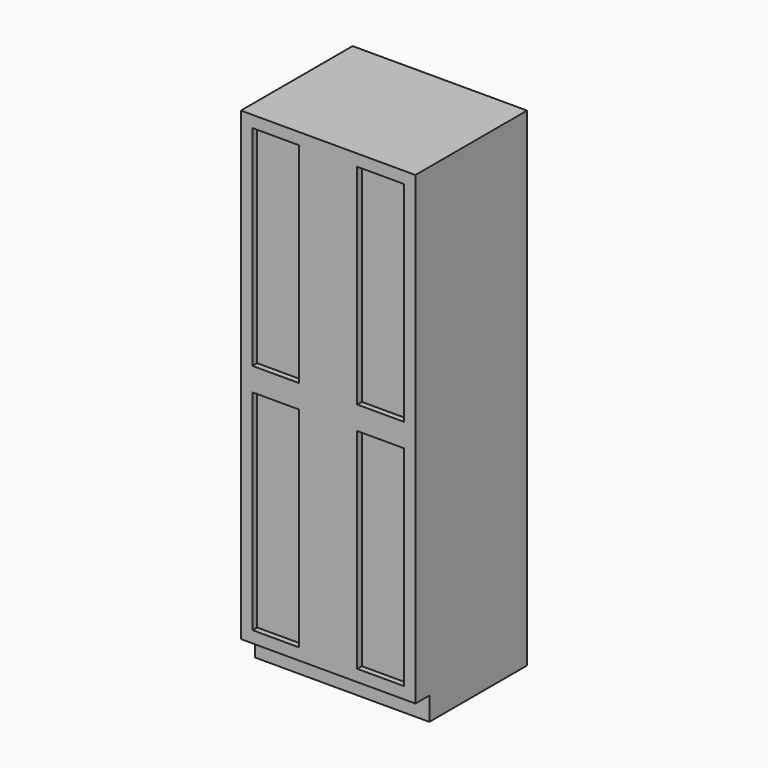
from build123d import *

# Parameters (mm, degrees)
F0_W     = 762
F0_H     = 609.6
F1_DEPTH = 2133.6
F2_W     = 762
F2_H     = 101.6
F3_DEPTH = 76.2
F4_W     = 203.2
F4_H     = 914.4
F5_DEPTH = 25.4


with BuildPart() as f1:
    # F0 (on Top) → F1 (new body)
    with BuildSketch(Plane.XY):
        with Locations((76.2, 0)):
            Rectangle(F0_W, F0_H)
    extrude(amount=F1_DEPTH)

    # F2 (on face) → F3 (cut)
    with BuildSketch(Plane.XZ.offset(304.8)):
        with Locations((76.2, 50.8)):
            Rectangle(F2_W, F2_H)
    extrude(amount=-F3_DEPTH, mode=Mode.SUBTRACT)

    # F4 (on face) → F5 (cut)
    with BuildSketch(Plane.XZ.offset(304.8)):
        with Locations((-152.4, 1625.6)):
            Rectangle(F4_W, F4_H)
        with Locations((304.8, 1625.6)):
            Rectangle(F4_W, F4_H)
        with Locations((304.8, 609.6)):
            Rectangle(F4_W, F4_H)
        with Locations((-152.4, 609.6)):
            Rectangle(F4_W, F4_H)
    extrude(amount=-F5_DEPTH, mode=Mode.SUBTRACT)


solid = f1.part
